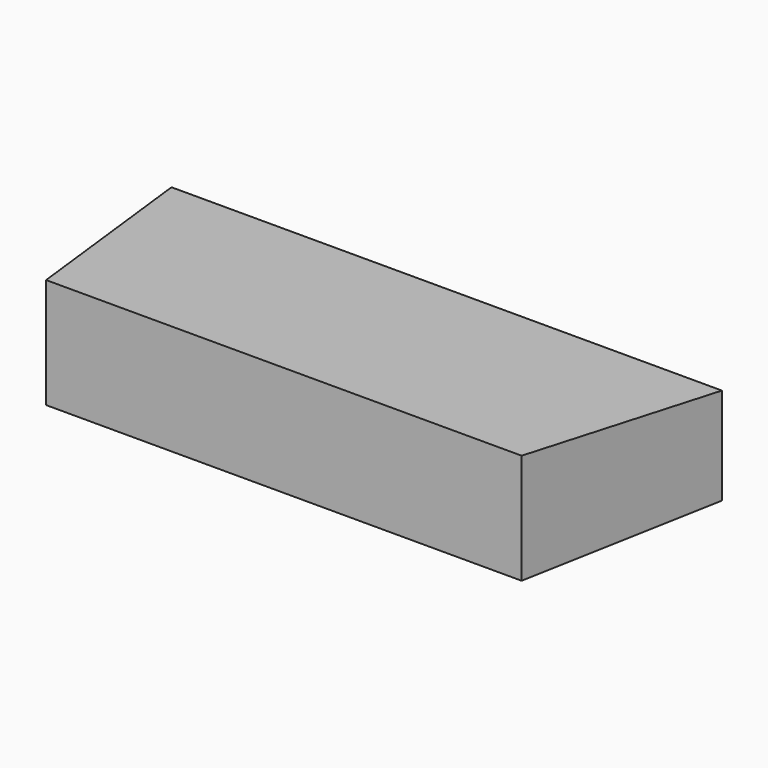
from build123d import *

# Parameters (mm, degrees)
F1_DEPTH      = 25
F3_DEPTH      = 62.501
F3_DEPTH_BACK = 62.501


with BuildPart() as f1:
    # F0 (on Top) → F1 (new body)
    with BuildSketch(Plane.XY):
        Polygon((-62.5, 46.2249932396), (-54, 0), (54, 0), (62.5, 46.2249932396), align=None)
    extrude(amount=-F1_DEPTH)

    # F2 (on Right) → F3 (cut, two sides)
    with BuildSketch(Plane.YZ) as f3_sk:
        Polygon((0, 0), (46.2249932396, -3), (46.2249932396, 0), align=None)
    extrude(amount=-F3_DEPTH, mode=Mode.SUBTRACT)
    extrude(f3_sk.sketch, amount=F3_DEPTH_BACK, mode=Mode.SUBTRACT)


solid = f1.part
